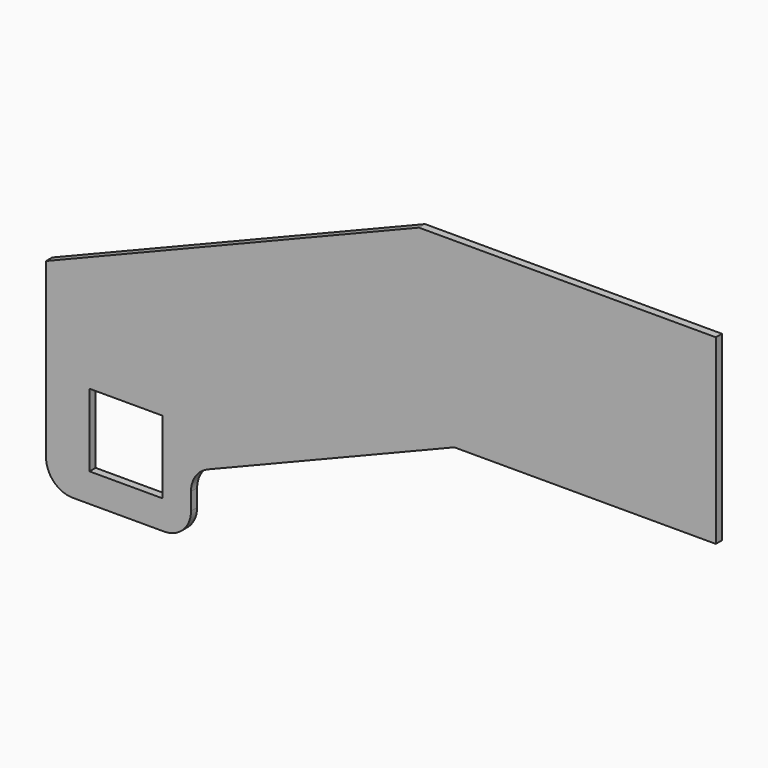
from build123d import *

# Parameters (mm, degrees)
F0_W     = 76
F0_H     = 76
F1_DEPTH = 8


with BuildPart() as f1:
    # F0 (on Front) → F1 (new body)
    with BuildSketch(Plane.XZ):
        with BuildLine():
            Line((0, -190), (0, 0))
            Line((0, 0), (-310, 0))
            Line((-310, 0), (-699.417219, -157.334769))
            Line((-699.417219, -157.334769), (-699.417219, -338))
            ThreePointArc((-699.417219, -338), (-691.216209, -357.79899), (-671.417219, -366))
            Line((-671.417219, -366), (-576.067741, -366))
            ThreePointArc((-576.067741, -366), (-556.268751, -357.79899), (-548.067741, -338))
            Line((-548.067741, -338), (-548.067741, -319.993451))
            ThreePointArc((-548.067741, -319.993451), (-543.280793, -304.336049), (-530.556726, -294.032303))
            Line((-530.556726, -294.032303), (-273.067741, -190))
            Line((-273.067741, -190), (0, -190))
        make_face()
        with Locations((-616.067741, -298)):
            Rectangle(F0_W, F0_H, mode=Mode.SUBTRACT)
    extrude(amount=F1_DEPTH)


solid = f1.part
